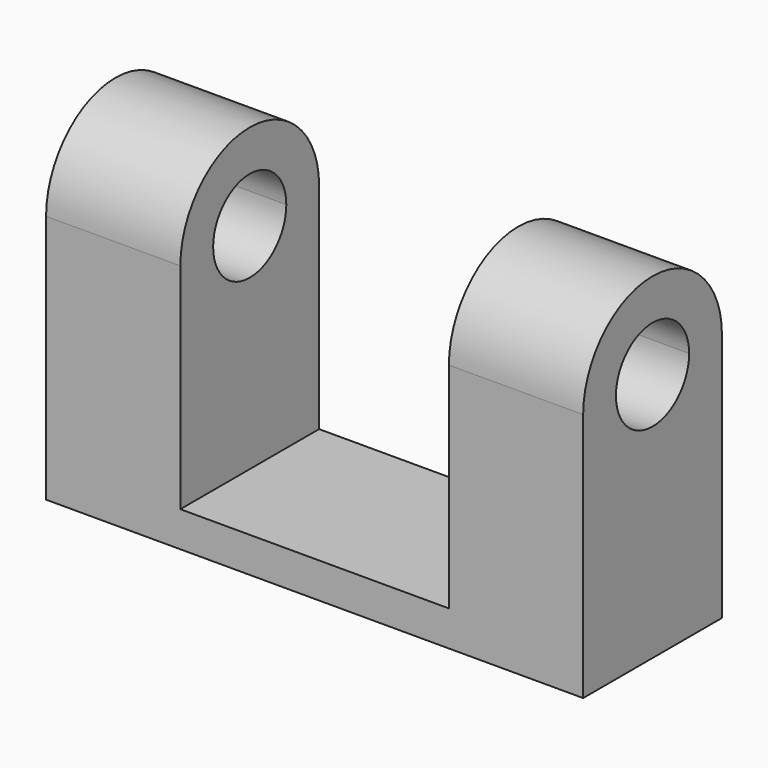
from build123d import *

# Parameters (mm, degrees)
F1_DEPTH = 101.6
F3_DEPTH = 32.8108554164


with BuildPart() as f1:
    # F0 (on Right) → F1 (new body)
    with BuildSketch(Plane.YZ):
        with BuildLine():
            Line((-15.6854130328, 37.9903614521), (-15.6854130328, -9.2097846791))
            Line((-15.6854130328, -9.2097846791), (17.1244423836, -9.2097846791))
            Line((17.1244423836, -9.2097846791), (17.1244423836, 37.9903614521))
            ThreePointArc((17.1244423836, 37.9903614521), (0.7195146754, 21.5854337439), (-15.6854130328, 37.9903614521))
        make_face()
        with BuildLine():
            ThreePointArc((17.1244423836, 37.9903614521), (0.7195146754, 54.3952891603), (-15.6854130328, 37.9903614521))
            Line((-15.6854130328, 37.9903614521), (-7.9286920533, 37.9903614521))
            ThreePointArc((-7.9286920533, 37.9903614521), (0.7195146754, 46.6385681808), (9.3677214042, 37.9903614521))
            Line((9.3677214042, 37.9903614521), (17.1244423836, 37.9903614521))
        make_face()
        with BuildLine():
            Line((-7.9286920533, 37.9903614521), (-15.6854130328, 37.9903614521))
            ThreePointArc((-15.6854130328, 37.9903614521), (0.7195146754, 21.5854337439), (17.1244423836, 37.9903614521))
            Line((17.1244423836, 37.9903614521), (9.3677214042, 37.9903614521))
            ThreePointArc((9.3677214042, 37.9903614521), (0.7195146754, 29.3421547234), (-7.9286920533, 37.9903614521))
        make_face()
    extrude(amount=-F1_DEPTH)

    # F2 (on face) → F3 (cut, through all)
    with BuildSketch(Plane.XZ.offset(15.6854130328)):
        Polygon((-76.2, 37.9903614521), (-76.2, -2.5324999557), (-25.4, -2.5324999557), (-25.4, 37.9903614521), (-25.4, 66.8847560883), (-76.2, 66.8847560883), align=None)
    extrude(amount=-F3_DEPTH, mode=Mode.SUBTRACT)


solid = f1.part
